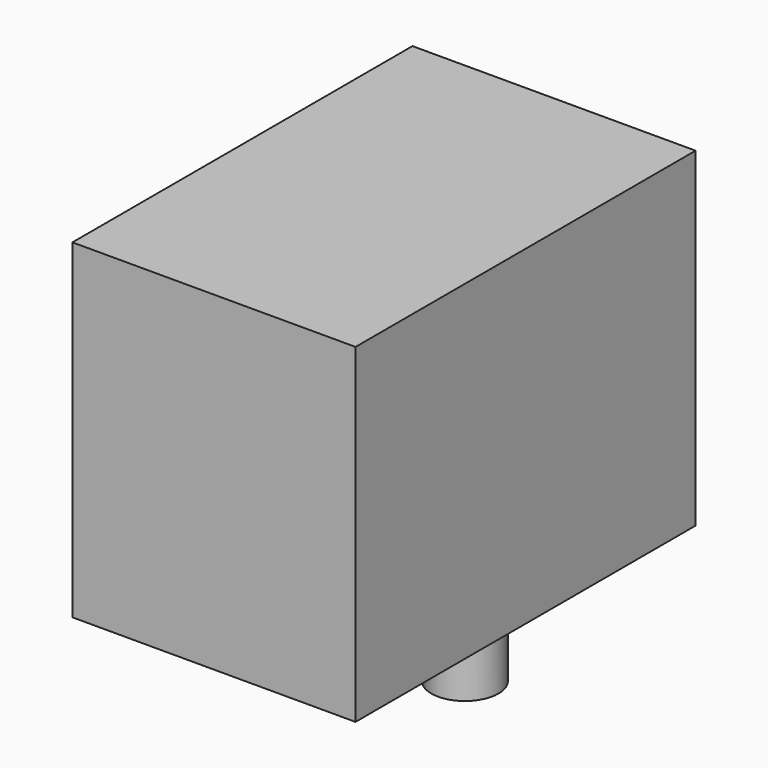
from build123d import *

# Parameters (mm, degrees)
F0_W     = 13.72
F0_H     = 20.6
F1_DEPTH = 16
F2_R     = 1.625
F3_DEPTH = 3.5
F4_R     = 0.4
F5_DEPTH = 3.5


with BuildPart() as f1:
    # F0 (on Top) → F1 (new body)
    with BuildSketch(Plane.XY):
        Rectangle(F0_W, F0_H)
    extrude(amount=F1_DEPTH)

    # F2 (on face) → F3 (join)
    with BuildSketch(Plane(origin=(0, 0, 0), x_dir=(1, 0, 0), z_dir=(0, 0, -1))):
        with Locations((-3.81, -0.14)):
            Circle(F2_R)
        with Locations((3.81, -0.14)):
            Circle(F2_R)
    extrude(amount=F3_DEPTH)

    # F4 (on face) → F5 (join)
    with BuildSketch(Plane(origin=(0, 0, 0), x_dir=(1, 0, 0), z_dir=(0, 0, -1))):
        with Locations((-0.635, -6.35)):
            Circle(F4_R)
        with Locations((1.905, -6.35)):
            Circle(F4_R)
        with Locations((-1.905, -8.89)):
            Circle(F4_R)
        with Locations((0.635, -8.89)):
            Circle(F4_R)
    extrude(amount=F5_DEPTH)


solid = f1.part
